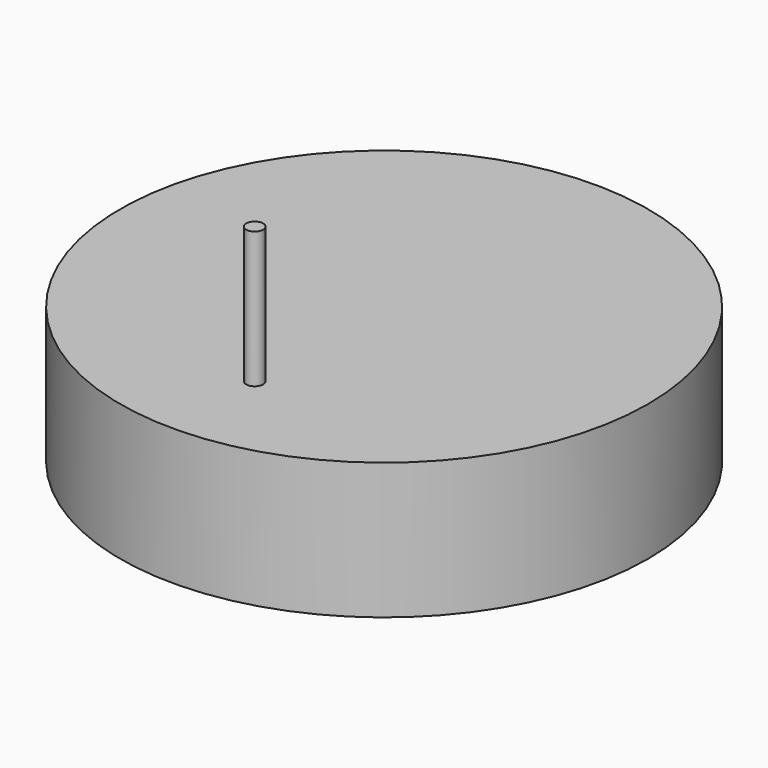
from build123d import *

# Parameters (mm, degrees)
F0_R     = 49.2125
F1_DEPTH = 25.4
F2_R     = 1.5875
F3_DEPTH = 25.4


with BuildPart() as f1:
    # F0 (on Top) → F1 (new body)
    with BuildSketch(Plane.XY):
        Circle(F0_R)
    extrude(amount=-F1_DEPTH)

    # F2 (on face) → F3 (join)
    with BuildSketch(Plane.XY):
        with Locations((0, -30.1625)):
            Circle(F2_R)
    extrude(amount=F3_DEPTH)


solid = f1.part
